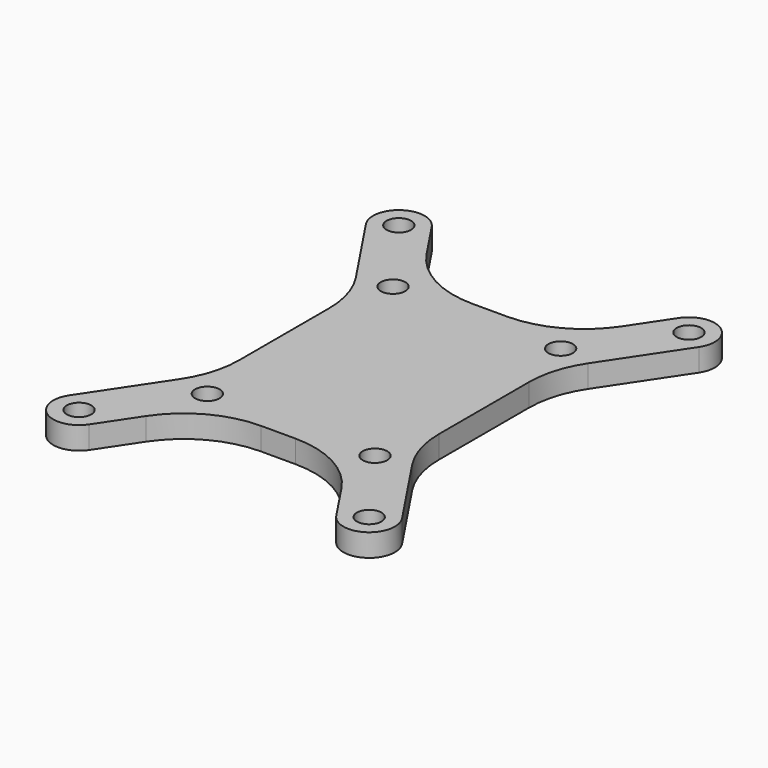
from build123d import *

# Parameters (mm, degrees)
F0_R     = 1.9
F1_DEPTH = 3.5


with BuildPart() as f1:
    # F0 (on Top) → F1 (new body)
    with BuildSketch(Plane.XY):
        with BuildLine():
            Line((-15.145596, 27.179497), (-19.171799, 33.218801))
            ThreePointArc((-19.171799, 33.218801), (-24.718801, 34.328201), (-25.828201, 28.781199))
            Line((-25.828201, 28.781199), (-18.019246, 17.067766))
            ThreePointArc((-18.019246, 17.067766), (-16.14362, 13.094025), (-15.5, 8.747263))
            Line((-15.5, 8.747263), (-15.5, -8.747263))
            ThreePointArc((-15.5, -8.747263), (-16.14362, -13.094025), (-18.019246, -17.067766))
            Line((-18.019246, -17.067766), (-25.828201, -28.781199))
            ThreePointArc((-25.828201, -28.781199), (-24.718801, -34.328201), (-19.171799, -33.218801))
            Line((-19.171799, -33.218801), (-15.145596, -27.179497))
            ThreePointArc((-15.145596, -27.179497), (-9.742711, -22.274881), (-2.664842, -20.5))
            Line((-2.664842, -20.5), (2.664842, -20.5))
            ThreePointArc((2.664842, -20.5), (9.742711, -22.274881), (15.145596, -27.179497))
            Line((15.145596, -27.179497), (19.171799, -33.218801))
            ThreePointArc((19.171799, -33.218801), (24.718801, -34.328201), (25.828201, -28.781199))
            Line((25.828201, -28.781199), (18.019246, -17.067766))
            ThreePointArc((18.019246, -17.067766), (16.14362, -13.094025), (15.5, -8.747263))
            Line((15.5, -8.747263), (15.5, 8.747263))
            ThreePointArc((15.5, 8.747263), (16.14362, 13.094025), (18.019246, 17.067766))
            Line((18.019246, 17.067766), (25.828201, 28.781199))
            ThreePointArc((25.828201, 28.781199), (24.718801, 34.328201), (19.171799, 33.218801))
            Line((19.171799, 33.218801), (15.145596, 27.179497))
            ThreePointArc((15.145596, 27.179497), (9.742711, 22.274881), (2.664842, 20.5))
            Line((2.664842, 20.5), (-2.664842, 20.5))
            ThreePointArc((-2.664842, 20.5), (-9.742711, 22.274881), (-15.145596, 27.179497))
        make_face()
        with Locations((-22.5, -31)):
            Circle(F0_R, mode=Mode.SUBTRACT)
        with Locations((-13, -18)):
            Circle(F0_R, mode=Mode.SUBTRACT)
        with Locations((13, -18)):
            Circle(F0_R, mode=Mode.SUBTRACT)
        with Locations((22.5, -31)):
            Circle(F0_R, mode=Mode.SUBTRACT)
        with Locations((-22.5, 31)):
            Circle(F0_R, mode=Mode.SUBTRACT)
        with Locations((-13, 18)):
            Circle(F0_R, mode=Mode.SUBTRACT)
        with Locations((13, 18)):
            Circle(F0_R, mode=Mode.SUBTRACT)
        with Locations((22.5, 31)):
            Circle(F0_R, mode=Mode.SUBTRACT)
    extrude(amount=F1_DEPTH)


solid = f1.part
